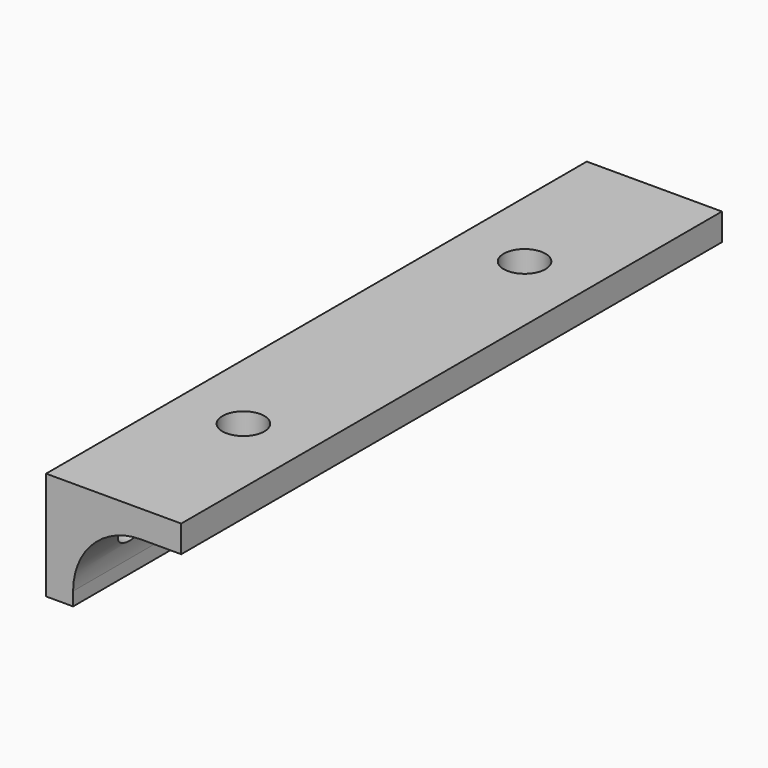
from build123d import *

# Parameters (mm, degrees)
PAD_DEPTH       = 50
SKETCH001_R     = 1.7
POCKET_DEPTH    = 10.001
SKETCH003_R     = 1.55
POCKET001_DEPTH = 8.001


with BuildPart() as part:
    # Sketch → Pad (new body)
    with BuildSketch(Plane.XZ):
        with BuildLine():
            Line((0, 0), (0, 8))
            Line((0, 8), (10, 8))
            Line((10, 8), (10, 6))
            Line((10, 6), (7, 6))
            ThreePointArc((7, 6), (3.464466, 4.535534), (2, 1))
            Line((2, 1), (2, 0))
            Line((2, 0), (0, 0))
        make_face()
    extrude(amount=PAD_DEPTH)

    # Sketch001 (on Face1 of Pad) → Pocket (cut, through all)
    with BuildSketch(Plane(origin=(0, 0, 0), x_dir=(0, 0, -1), z_dir=(-1, 0, 0))):
        with Locations((-4, 5)):
            Circle(SKETCH001_R)
        with Locations((-4, 45)):
            Circle(SKETCH001_R)
    extrude(amount=-POCKET_DEPTH, mode=Mode.SUBTRACT)

    # Sketch003 (on Face5 of Pocket) → Pocket001 (cut, through all)
    with BuildSketch(Plane(origin=(0, 0, 8), x_dir=(-1, 0, 0), z_dir=(0, 0, 1))):
        with Locations((-5, 38)):
            Circle(SKETCH003_R)
        with Locations((-5, 12)):
            Circle(SKETCH003_R)
    extrude(amount=-POCKET001_DEPTH, mode=Mode.SUBTRACT)


solid = part.part
